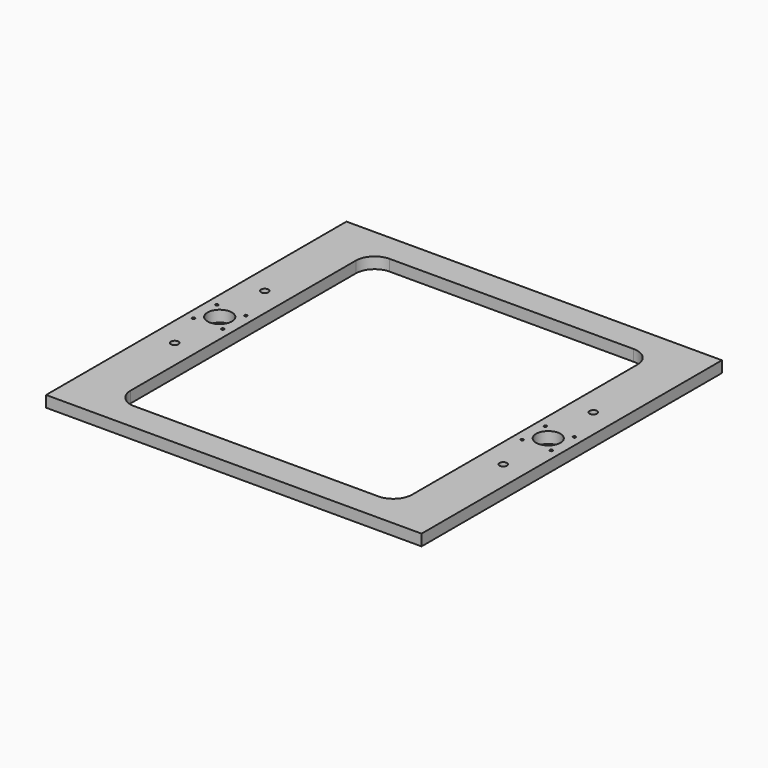
from build123d import *

# Parameters (mm, degrees)
F0_W     = 400
F0_H     = 400
F0_R     = 4
F0_R_2   = 1.5
F0_R_3   = 13
F1_DEPTH = 12


with BuildPart() as f1:
    # F0 (on Top) → F1 (new body)
    with BuildSketch(Plane.XY):
        Rectangle(F0_W, F0_H)
        with Locations((-175, -60)):
            Circle(F0_R, mode=Mode.SUBTRACT)
        with Locations((-190.5, -15.5)):
            Circle(F0_R_2, mode=Mode.SUBTRACT)
        with Locations((-159.5, -15.5)):
            Circle(F0_R_2, mode=Mode.SUBTRACT)
        with Locations((175, -60)):
            Circle(F0_R, mode=Mode.SUBTRACT)
        with Locations((159.626022, -15.5)):
            Circle(F0_R_2, mode=Mode.SUBTRACT)
        with Locations((190.626022, -15.5)):
            Circle(F0_R_2, mode=Mode.SUBTRACT)
        with Locations((-190.5, 15.5)):
            Circle(F0_R_2, mode=Mode.SUBTRACT)
        with Locations((-175, 0)):
            Circle(F0_R_3, mode=Mode.SUBTRACT)
        with Locations((-159.5, 15.5)):
            Circle(F0_R_2, mode=Mode.SUBTRACT)
        with Locations((-175, 60)):
            Circle(F0_R, mode=Mode.SUBTRACT)
        with BuildLine():
            Line((-130, 170), (130, 170))
            ThreePointArc((130, 170), (144.142136, 164.142136), (150, 150))
            Line((150, 150), (150, -150))
            ThreePointArc((150, -150), (144.142136, -164.142136), (130, -170))
            Line((130, -170), (-130, -170))
            ThreePointArc((-130, -170), (-144.142136, -164.142136), (-150, -150))
            Line((-150, -150), (-150, 150))
            ThreePointArc((-150, 150), (-144.142136, 164.142136), (-130, 170))
        make_face(mode=Mode.SUBTRACT)
        with Locations((159.5, 15.5)):
            Circle(F0_R_2, mode=Mode.SUBTRACT)
        with Locations((175, 0)):
            Circle(F0_R_3, mode=Mode.SUBTRACT)
        with Locations((190.5, 15.5)):
            Circle(F0_R_2, mode=Mode.SUBTRACT)
        with Locations((175, 60)):
            Circle(F0_R, mode=Mode.SUBTRACT)
    extrude(amount=F1_DEPTH)


solid = f1.part
